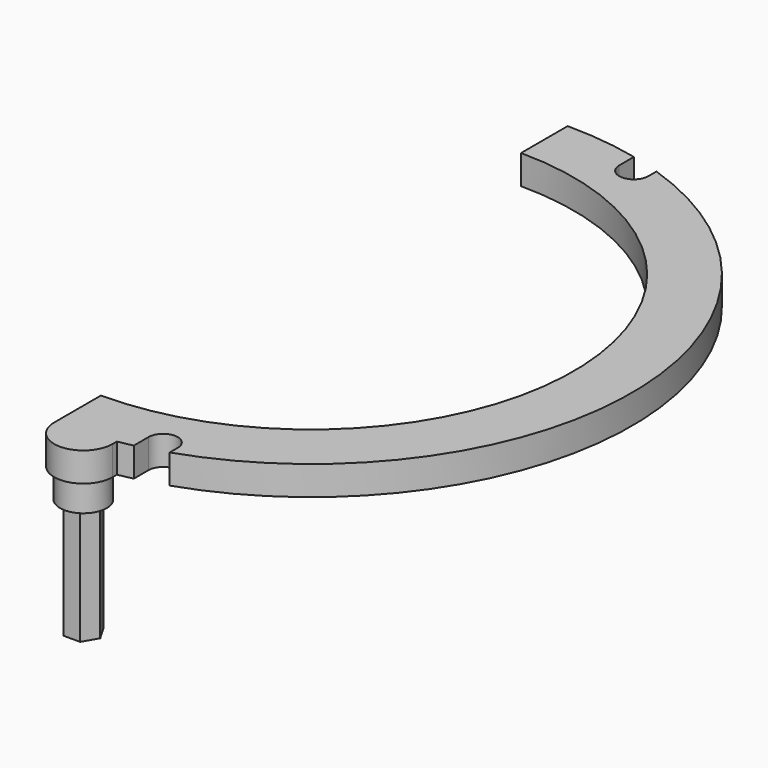
from build123d import *

# Parameters (mm, degrees)
PAD002_DEPTH = 5
SKETCH006_R  = 4
PAD003_DEPTH = 5
PAD009_DEPTH = 20


with BuildPart() as part:
    # Sketch003 → Pad002 (new body)
    with BuildSketch(Plane.XY):
        with BuildLine():
            ThreePointArc((0, -45), (45, 0), (0, 45))
            Line((0, 45), (0, 55))
            ThreePointArc((12.5, 53.560713), (6.291295, 54.638994), (0, 55))
            Line((12.5, 50.415026), (12.5, 53.560713))
            ThreePointArc((12.5, 50.415026), (15, 47.915026), (17.5, 50.415026))
            Line((17.5, 50.415026), (17.5, 52.141634))
            ThreePointArc((17.5, -52.141634), (55, 0), (17.5, 52.141634))
            Line((17.5, -50.415026), (17.5, -52.141634))
            ThreePointArc((17.5, -50.415026), (15, -47.915026), (12.5, -50.415026))
            Line((12.5, -50.415026), (12.5, -53.560713))
            ThreePointArc((10, -54.083269), (11.253034, -53.836505), (12.5, -53.560713))
            Line((10, -55), (10, -54.083269))
            ThreePointArc((0, -55), (5, -60), (10, -55))
            Line((0, -45), (0, -55))
        make_face()
    extrude(amount=PAD002_DEPTH)

    # Sketch006 (on Face15 of Pad002) → Pad003 (join)
    with BuildSketch(Plane(origin=(0, 0, 0), x_dir=(1, 0, 0), z_dir=(0, 0, -1))):
        with Locations((5, 55)):
            Circle(SKETCH006_R)
    extrude(amount=PAD003_DEPTH)

    # Sketch009 (on Face18 of Pad003) → Pad009 (join)
    with BuildSketch(Plane(origin=(0, 0, -5), x_dir=(1, 0, 0), z_dir=(0, 0, -1))):
        Polygon((2.113249, 55), (3.556624, 52.5), (6.443376, 52.5), (7.886751, 55), (6.443376, 57.5), (3.556624, 57.5), align=None)
    extrude(amount=PAD009_DEPTH)


with BuildPart() as part_1:
    # Body001 placement: moved
    add(part.part.moved(Location((0, 0, 8))))


solid = part_1.part
